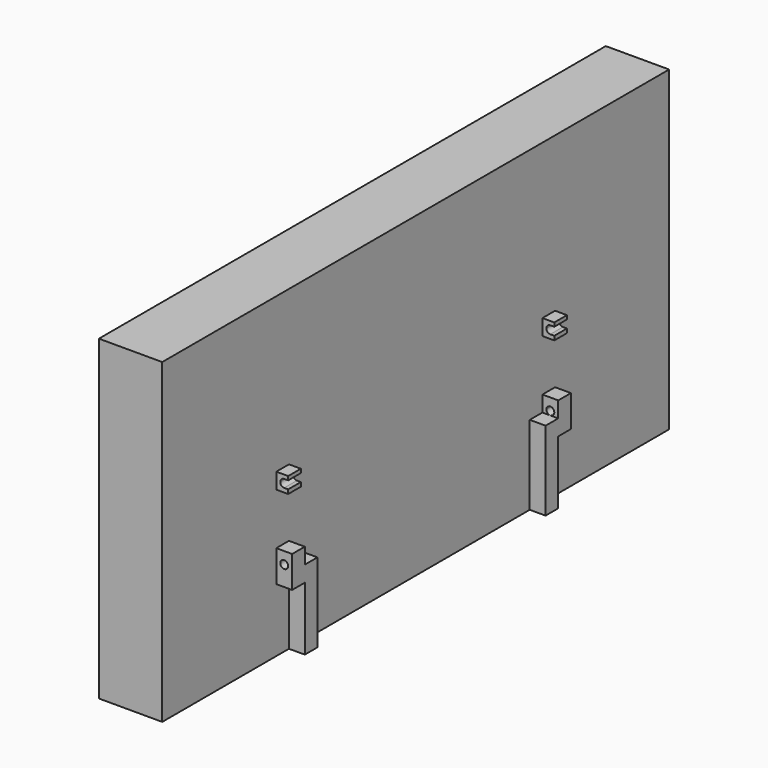
from build123d import *

# Parameters (mm, degrees)
F1_DEPTH  = 2000
F0_W      = 100
F0_H      = 100
F2_DEPTH  = 500
F5_DEPTH  = 100
F6_DEPTH  = 100
F7_W      = 100
F7_H      = 100
F8_DEPTH  = 75
F10_DEPTH = 2277


with BuildPart() as f1:
    # F0 (on Top) → F1 (new body)
    with BuildSketch(Plane.XY):
        Polygon((-325.4270623924, -1998.0526566505), (74.5729376076, -1998.0526566505), (74.5729376076, -998.0526566505), (74.5729376076, -898.0526566505), (74.5729376076, 901.9473433495), (74.5729376076, 1001.9473433495), (74.5729376076, 2001.9473433495), (-325.4270623924, 2001.9473433495), align=None)
    extrude(amount=F1_DEPTH)

    # F0 (on Top) → F2 (join)
    with BuildSketch(Plane.XY):
        with Locations((124.5729376076, -948.0526566505)):
            Rectangle(F0_W, F0_H)
        with Locations((124.5729376076, 951.9473433495)):
            Rectangle(F0_W, F0_H)
    extrude(amount=F2_DEPTH)

    # F4 (on face) → F5 (join)
    with BuildSketch(Plane(origin=(0, 1001.9473433495, 0), x_dir=(-1, 0, 0), z_dir=(0, 1, 0))):
        Polygon((-174.5729376076, 400), (-74.5729376076, 400), (-74.5729376076, 500), (-124.5729376076, 500), (-174.5729376076, 500), align=None)
        Polygon((-124.5729376076, 500), (-74.5729376076, 500), (-74.5729376076, 600), (-174.5729376076, 600), (-174.5729376076, 500), align=None)
        with BuildLine():
            ThreePointArc((-99.5729376076, 525), (-106.8952680779, 507.3223304703), (-124.5729376076, 500))
            ThreePointArc((-124.5729376076, 500), (-142.2506071373, 542.6776695297), (-99.5729376076, 525))
        make_face(mode=Mode.SUBTRACT)
    extrude(amount=F5_DEPTH)

    # F3 (on face) → F6 (join)
    with BuildSketch(Plane.XZ.offset(998.0526566505)):
        Polygon((74.5729376076, 600), (74.5729376076, 500), (124.5729376076, 500), (174.5729376076, 500), (174.5729376076, 600), align=None)
        with BuildLine():
            ThreePointArc((149.5729376076, 525), (142.2506071373, 507.3223304703), (124.5729376076, 500))
            ThreePointArc((124.5729376076, 500), (106.8952680779, 542.6776695297), (149.5729376076, 525))
        make_face(mode=Mode.SUBTRACT)
        Polygon((74.5729376076, 500), (74.5729376076, 400), (174.5729376076, 400), (174.5729376076, 500), (124.5729376076, 500), align=None)
    extrude(amount=F6_DEPTH)

    # F7 (on face) → F8 (join)
    with BuildSketch(Plane.YZ.offset(74.5729376076)):
        with Locations((-1048.0526566505, 975)):
            Rectangle(F7_W, F7_H)
        with Locations((1051.9473433495, 975)):
            Rectangle(F7_W, F7_H)
    extrude(amount=F8_DEPTH)

    # F9 (on face) → F10 (cut)
    with BuildSketch(Plane(origin=(0, 1101.9473433495, 0), x_dir=(-1, 0, 0), z_dir=(0, 1, 0))):
        with BuildLine():
            ThreePointArc((-124.5729376076, 950.9479165077), (-106.8952680779, 958.2702469781), (-99.5729376076, 975.9479165077))
            ThreePointArc((-99.5729376076, 975.9479165077), (-106.8952680779, 993.6255860374), (-124.5729376076, 1000.9479165077))
            ThreePointArc((-124.5729376076, 1000.9479165077), (-142.2506071373, 993.6255860374), (-149.5729376076, 975.9479165077))
            ThreePointArc((-149.5729376076, 975.9479165077), (-142.2506071373, 958.2702469781), (-124.5729376076, 950.9479165077))
        make_face()
        with BuildLine():
            ThreePointArc((-149.5729376076, 975.9479165077), (-142.2506071373, 993.6255860374), (-124.5729376076, 1000.9479165077))
            Line((-124.5729376076, 1000.9479165077), (-149.5729376076, 1000.9479165077))
            Line((-149.5729376076, 1000.9479165077), (-149.5729376076, 975.9479165077))
        make_face()
        with BuildLine():
            Line((-149.5729376076, 950.9479165077), (-124.5729376076, 950.9479165077))
            ThreePointArc((-124.5729376076, 950.9479165077), (-142.2506071373, 958.2702469781), (-149.5729376076, 975.9479165077))
            Line((-149.5729376076, 975.9479165077), (-149.5729376076, 950.9479165077))
        make_face()
    extrude(amount=-F10_DEPTH, mode=Mode.SUBTRACT)


solid = f1.part
